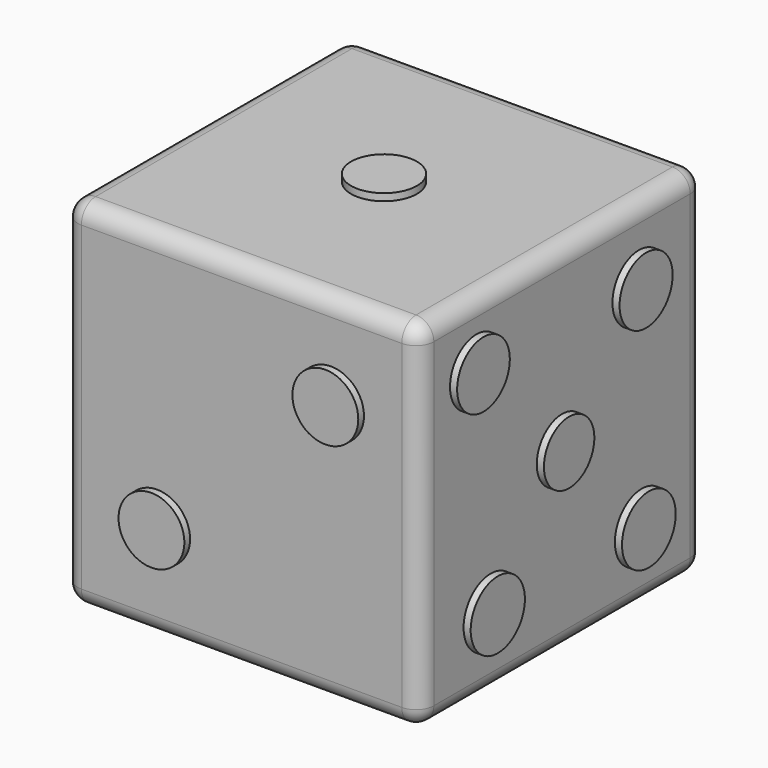
from build123d import *

# Parameters (mm, degrees)
F0_W      = 25.4
F0_H      = 25.4
F1_DEPTH  = 12.7
F6_R      = 2.366031
F6_R_2    = 2.397035
F6_R_3    = 2.418186
F6_R_4    = 2.249071
F6_R_5    = 2.3495
F8_DEPTH  = 0.508
F3_R      = 2.3495
F9_DEPTH  = 0.508
F4_R      = 2.3495
F10_DEPTH = 0.508
F5_R      = 2.3495
F11_DEPTH = 0.508
F7_R      = 2.3495
F7_R_2    = 2.451766
F12_DEPTH = 0.508
F2_R      = 2.355595
F2_R_2    = 2.347424
F2_R_3    = 2.3495
F13_DEPTH = 0.508
F14_DEPTH = 0.508
F15_R     = 1.27


with BuildPart() as f1:
    # F0 (on Top) → F1 (new body, symmetric)
    with BuildSketch(Plane.XY):
        Rectangle(F0_W, F0_H)
    extrude(amount=F1_DEPTH, both=True)

    # F6 (on face) → F8 (join)
    with BuildSketch(Plane.YZ.offset(12.7)):
        with Locations((6.863432, 7.388731)):
            Circle(F6_R)
        with Locations((7.110631, -7.731593)):
            Circle(F6_R_2)
        with Locations((-6.361702, -7.607994)):
            Circle(F6_R_3)
        Circle(F6_R_4)
        with Locations((-7.638895, 8.006728)):
            Circle(F6_R_5)
    extrude(amount=F8_DEPTH)

    # F3 (on face) → F9 (join)
    with BuildSketch(Plane.XY.offset(12.7)):
        Circle(F3_R)
    extrude(amount=F9_DEPTH)

    # F4 (on face) → F10 (join)
    with BuildSketch(Plane(origin=(0, 12.7, 0), x_dir=(-1, 0, 0), z_dir=(0, 1, 0))):
        with Locations((-6.917292, 6.473729)):
            Circle(F4_R)
        with Locations((6.729059, 6.646467)):
            Circle(F4_R)
        with Locations((6.556321, -6.308929)):
            Circle(F4_R)
        with Locations((-6.053598, -6.481668)):
            Circle(F4_R)
    extrude(amount=F10_DEPTH)

    # F5 (on face) → F11 (join)
    with BuildSketch(Plane.XZ.offset(12.7)):
        with Locations((6.381141, 5.995322)):
            Circle(F5_R)
    extrude(amount=-F11_DEPTH)

    # F7 (on face) → F12 (join)
    with BuildSketch(Plane(origin=(-12.7, 0, 0), x_dir=(0, -1, 0), z_dir=(-1, 0, 0))):
        with Locations((-6.925553, 8.001271)):
            Circle(F7_R)
        with Locations((-6.925553, 0)):
            Circle(F7_R)
        with Locations((-6.925553, -7.923216)):
            Circle(F7_R)
        with Locations((8.158201, 8.001271)):
            Circle(F7_R)
        with Locations((8.158201, 0)):
            Circle(F7_R_2)
        with Locations((8.257111, -7.923216)):
            Circle(F7_R)
    extrude(amount=F12_DEPTH)

    # F2 (on face) → F13 (join)
    with BuildSketch(Plane(origin=(0, 0, -12.7), x_dir=(1, 0, 0), z_dir=(0, 0, -1))):
        Circle(F2_R)
        with Locations((-6.368103, -6.368103)):
            Circle(F2_R_2)
        with Locations((7.108342, 6.695065)):
            Circle(F2_R_3)
    extrude(amount=F13_DEPTH)

    # F5 (on face) → F14 (join)
    with BuildSketch(Plane.XZ.offset(12.7)):
        with Locations((-6.024025, -5.776247)):
            Circle(F5_R)
        with Locations((6.381141, 5.995322)):
            Circle(F5_R)
    extrude(amount=F14_DEPTH)

    # F15
    f15_edges = [f1.edges().sort_by_distance(p)[0] for p in [
        (12.7, 0, 12.7),
        (12.7, -12.7, 0),
        (0, -12.7, 12.7),
        (-12.7, -12.7, 0),
        (-12.7, 0, 12.7),
        (-12.7, 12.7, 0),
        (-12.7, 0, -12.7),
        (0, 12.7, 12.7),
        (12.7, 12.7, 0),
        (0, -12.7, -12.7),
        (12.7, 0, -12.7),
        (0, 12.7, -12.7),
    ]]
    fillet(f15_edges, radius=F15_R)


solid = f1.part
